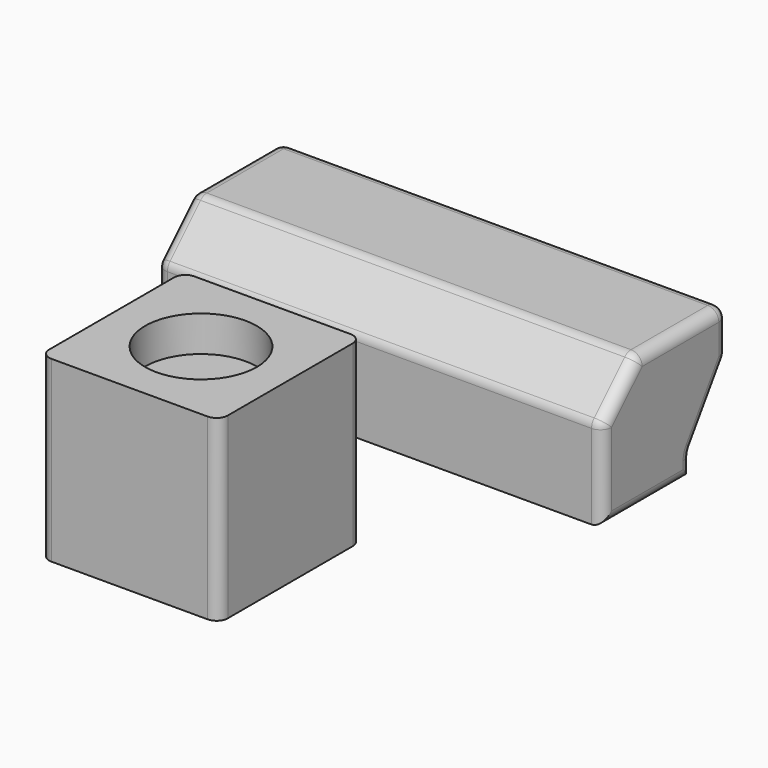
from build123d import *

# Parameters (mm, degrees)
F0_W          = 80
F0_H          = 80
F1_DEPTH      = 80
F2_R          = 25
F3_DEPTH      = 16
F4_R          = 5
F6_DEPTH      = 100
F6_DEPTH_BACK = 100
F7_R          = 5


with BuildPart() as f1:
    # F0 (on Top) → F1 (new body)
    with BuildSketch(Plane.XY):
        Rectangle(F0_W, F0_H)
    extrude(amount=F1_DEPTH)

    # F2 (on face) → F3 (cut)
    with BuildSketch(Plane.XY.offset(80)):
        Circle(F2_R)
    extrude(amount=-F3_DEPTH, mode=Mode.SUBTRACT)

    # F4
    f4_edges = [f1.edges().sort_by_distance(p)[0] for p in [
        (-40, -40, 40),
        (-40, 40, 40),
        (40, 40, 40),
        (40, -40, 40),
    ]]
    fillet(f4_edges, radius=F4_R)


with BuildPart() as f6:
    # F5 (on Right) → F6 (new body, two sides)
    with BuildSketch(Plane.YZ) as f6_sk:
        Polygon((100, 40), (100, 0), (150, 0), (150, 10), (170, 40), (170, 60), (120, 60), align=None)
    extrude(amount=F6_DEPTH)
    extrude(f6_sk.sketch, amount=-F6_DEPTH_BACK)

    # F7
    f7_edges = [f6.edges().sort_by_distance(p)[0] for p in [
        (0, 100, 40),
        (0, 120, 60),
        (0, 170, 60),
        (0, 170, 40),
        (0, 150, 10),
        (100, 100, 20),
        (100, 125, 0),
        (100, 150, 5),
        (100, 160, 25),
        (100, 170, 50),
        (100, 145, 60),
        (100, 110, 50),
        (-100, 100, 20),
        (-100, 125, 0),
        (-100, 150, 5),
        (-100, 160, 25),
        (-100, 170, 50),
        (-100, 145, 60),
        (-100, 110, 50),
    ]]
    fillet(f7_edges, radius=F7_R)


solid = Compound([f1.part, f6.part])
